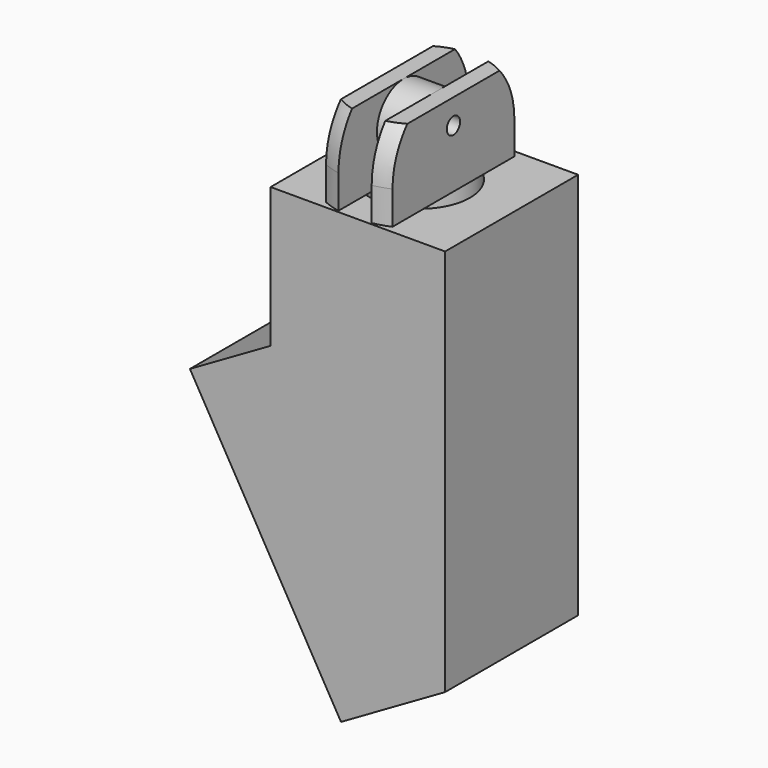
from build123d import *

# Parameters (mm, degrees)
CYLINDER252_R               = 2
CYLINDER252_DEPTH           = 10
CYLINDER252_PLACEMENT_ANGLE = 30
CYLINDER249_R               = 3
CYLINDER249_DEPTH           = 22
CYLINDER232_R               = 0.5
CYLINDER232_DEPTH           = 10
CYLINDER250_R               = 2
CYLINDER250_DEPTH           = 4
CYLINDER248_R               = 3
CYLINDER248_DEPTH           = 10
BOX132_W                    = 10
BOX132_H                    = 10
BOX132_DEPTH                = 10
BOX130_W                    = 2
BOX130_H                    = 10
BOX130_DEPTH                = 10
BOX121_W                    = 10
BOX121_H                    = 10
BOX121_DEPTH                = 10
CYLINDER251_R               = 5
CYLINDER251_DEPTH           = 10
CYLINDER239_R               = 5
CYLINDER239_DEPTH           = 10
BOX129_W                    = 2
BOX129_H                    = 10
BOX129_DEPTH                = 25
BOX126_W                    = 2
BOX126_H                    = 10
BOX126_DEPTH                = 10
BOX128_W                    = 1.5
BOX128_H                    = 10
BOX128_DEPTH                = 24
BOX128_PLACEMENT_ANGLE      = 60
BOX114_W                    = 1
BOX114_H                    = 10
BOX114_DEPTH                = 24
BOX131_W                    = 12
BOX131_H                    = 10
BOX131_DEPTH                = 17
BOX131_PLACEMENT_ANGLE      = 30
BOX127_W                    = 12.5
BOX127_H                    = 10
BOX127_DEPTH                = 43
BOX111_W                    = 32
BOX111_H                    = 10
BOX111_DEPTH                = 43
BOX111_PLACEMENT_ANGLE      = 30
CYLINDER229_R               = 4.85
CYLINDER229_DEPTH           = 10
BOX125_W                    = 13
BOX125_H                    = 16
BOX125_DEPTH                = 32
BOX125_PLACEMENT_ANGLE      = 30
CYLINDER247_R               = 3
CYLINDER247_DEPTH           = 43
CYLINDER228_R               = 2
CYLINDER228_DEPTH           = 30
CYLINDER242_R               = 2
CYLINDER242_DEPTH           = 30
CYLINDER244_R               = 2
CYLINDER244_DEPTH           = 50
CYLINDER245_R               = 2
CYLINDER245_DEPTH           = 15
CYLINDER246_R               = 3
CYLINDER246_DEPTH           = 5
CYLINDER243_R               = 3
CYLINDER243_DEPTH           = 5
CYLINDER236_R               = 0.5
CYLINDER236_DEPTH           = 10
CYLINDER233_R               = 2
CYLINDER233_DEPTH           = 4
CYLINDER241_R               = 3
CYLINDER241_DEPTH           = 10
BOX118_W                    = 10
BOX118_H                    = 10
BOX118_DEPTH                = 10
BOX115_W                    = 2
BOX115_H                    = 10
BOX115_DEPTH                = 10
BOX122_W                    = 10
BOX122_H                    = 10
BOX122_DEPTH                = 10
CYLINDER237_R               = 5
CYLINDER237_DEPTH           = 10
CYLINDER240_R               = 5
CYLINDER240_DEPTH           = 10
CYLINDER230_R               = 0.5
CYLINDER230_DEPTH           = 10
CYLINDER235_R               = 2
CYLINDER235_DEPTH           = 4
CYLINDER238_R               = 3
CYLINDER238_DEPTH           = 10
BOX124_W                    = 10
BOX124_H                    = 10
BOX124_DEPTH                = 10
BOX112_W                    = 2
BOX112_H                    = 10
BOX112_DEPTH                = 10
BOX117_W                    = 10
BOX117_H                    = 10
BOX117_DEPTH                = 10
CYLINDER231_R               = 5
CYLINDER231_DEPTH           = 10
CYLINDER234_R               = 5
CYLINDER234_DEPTH           = 10
BOX119_W                    = 10
BOX119_H                    = 10
BOX119_DEPTH                = 20
BOX123_W                    = 10
BOX123_H                    = 10
BOX123_DEPTH                = 20
BOX113_W                    = 40
BOX113_H                    = 10
BOX113_DEPTH                = 50
BOX113_PLACEMENT_ANGLE      = 30
BOX120_W                    = 40
BOX120_H                    = 10
BOX120_DEPTH                = 50
BOX116_W                    = 32
BOX116_H                    = 10
BOX116_DEPTH                = 43


with BuildPart() as cylinder252:
    # Cylinder252 → Cylinder252 (new body)
    with BuildSketch(Plane.XY):
        Circle(CYLINDER252_R)
    extrude(amount=CYLINDER252_DEPTH)


with BuildPart() as cylinder252_1:
    # Cylinder252 placement: moved
    add(cylinder252.part.moved(Location((-69.936533, 0, -70.815699))).rotate(Axis((-69.936533, 0, -70.815699), (0, 1, 0)), CYLINDER252_PLACEMENT_ANGLE))


with BuildPart() as cylinder249:
    # Cylinder249 → Cylinder249 (new body)
    with BuildSketch(Plane(origin=(-64.5, 0, -69.5), x_dir=(1, 0, 0), z_dir=(0, 0, 1))):
        Circle(CYLINDER249_R)
    extrude(amount=CYLINDER249_DEPTH)


with BuildPart() as cylinder232:
    # Cylinder232 → Cylinder232 (new body)
    with BuildSketch(Plane(origin=(-5, 0, -7), x_dir=(0, 0, -1), z_dir=(1, 0, 0))):
        Circle(CYLINDER232_R)
    extrude(amount=CYLINDER232_DEPTH)


with BuildPart() as cylinder250:
    # Cylinder250 → Cylinder250 (new body)
    with BuildSketch(Plane(origin=(-2, -50, 1), x_dir=(0, 0, -1), z_dir=(1, 0, 0))):
        Circle(CYLINDER250_R)
    extrude(amount=CYLINDER250_DEPTH)


with BuildPart() as cylinder248:
    # Cylinder248 → Cylinder248 (new body)
    with BuildSketch(Plane(origin=(0, -50, -12), x_dir=(1, 0, 0), z_dir=(0, 0, 1))):
        Circle(CYLINDER248_R)
    extrude(amount=CYLINDER248_DEPTH)


with BuildPart() as cube132:
    # Box132 → Box132 (new body)
    with BuildSketch(Plane(origin=(-12, -55, -2), x_dir=(1, 0, 0), z_dir=(0, 0, 1))):
        with Locations((5, 5)):
            Rectangle(BOX132_W, BOX132_H)
    extrude(amount=BOX132_DEPTH)


with BuildPart() as cube130:
    # Box130 → Box130 (new body)
    with BuildSketch(Plane(origin=(-1, -55, -2), x_dir=(1, 0, 0), z_dir=(0, 0, 1))):
        with Locations((1, 5)):
            Rectangle(BOX130_W, BOX130_H)
    extrude(amount=BOX130_DEPTH)


with BuildPart() as cube121:
    # Box121 → Box121 (new body)
    with BuildSketch(Plane(origin=(2, -55, -2), x_dir=(1, 0, 0), z_dir=(0, 0, 1))):
        with Locations((5, 5)):
            Rectangle(BOX121_W, BOX121_H)
    extrude(amount=BOX121_DEPTH)


with BuildPart() as cylinder251:
    # Cylinder251 → Cylinder251 (new body)
    with BuildSketch(Plane(origin=(0, -50, -10), x_dir=(1, 0, 0), z_dir=(0, 0, 1))):
        Circle(CYLINDER251_R)
    extrude(amount=CYLINDER251_DEPTH)


with BuildPart() as sphere048:
    # Sphere048 → Sphere048 (revolve)
    with BuildSketch(Plane.XZ.offset(50)):
        with BuildLine():
            ThreePointArc((5, 0), (3.535534, 3.535534), (0, 5))
            Line((0, 5), (0, 0))
            Line((0, 0), (5, 0))
        make_face()
    revolve(axis=Axis((0, -50, 0), (0, 0, 1)))


with BuildPart() as cut204006055:
    # Cylinder239 → Cylinder239 (new body)
    with BuildSketch(Plane(origin=(0, -50, -7), x_dir=(1, 0, 0), z_dir=(0, 0, 1))):
        Circle(CYLINDER239_R)
    extrude(amount=CYLINDER239_DEPTH)

    # Common041: intersect Sphere048
    add(sphere048.part, mode=Mode.INTERSECT)

    # Fusion005077020021: union Cylinder251
    add(cylinder251.part)

    # Cut204006052: cut Cube121
    add(cube121.part, mode=Mode.SUBTRACT)

    # Cut204006046: cut Cube130
    add(cube130.part, mode=Mode.SUBTRACT)

    # Cut204006051: cut Cube132
    add(cube132.part, mode=Mode.SUBTRACT)

    # Cut204006047: cut Cylinder248
    add(cylinder248.part, mode=Mode.SUBTRACT)

    # Fusion005077020020: union Cylinder250
    add(cylinder250.part)


with BuildPart() as cut204006055_1:
    # Fusion005077020019 placement: moved
    add(cut204006055.part.moved(Location((0, 50, -8.5))))

    # Cut204006055: cut Cylinder232
    add(cylinder232.part, mode=Mode.SUBTRACT)


with BuildPart() as cut204006055_2:
    # Cut204006055 placement: moved
    add(cut204006055_1.part.moved(Location((-64.5, 0, -37))))


with BuildPart() as cube129:
    # Box129 → Box129 (new body)
    with BuildSketch(Plane(origin=(-59, -5, -72), x_dir=(1, 0, 0), z_dir=(0, 0, 1))):
        with Locations((1, 5)):
            Rectangle(BOX129_W, BOX129_H)
    extrude(amount=BOX129_DEPTH)


with BuildPart() as cube126:
    # Box126 → Box126 (new body)
    with BuildSketch(Plane(origin=(-57.5, -5, -72), x_dir=(1, 0, 0), z_dir=(0, 0, 1))):
        with Locations((1, 5)):
            Rectangle(BOX126_W, BOX126_H)
    extrude(amount=BOX126_DEPTH)


with BuildPart() as cube128:
    # Box128 → Box128 (new body)
    with BuildSketch(Plane.XY):
        with Locations((0.75, 5)):
            Rectangle(BOX128_W, BOX128_H)
    extrude(amount=BOX128_DEPTH)


with BuildPart() as cube128_1:
    # Box128 placement: moved
    add(cube128.part.moved(Location((-189.24, -5, -81.946987))).rotate(Axis((-189.24, -5, -81.946987), (0, 1, 0)), BOX128_PLACEMENT_ANGLE))


with BuildPart() as cube114:
    # Box114 → Box114 (new body)
    with BuildSketch(Plane(origin=(-169, -5, -70.5), x_dir=(1, 0, 0), z_dir=(0, 0, 1))):
        with Locations((0.5, 5)):
            Rectangle(BOX114_W, BOX114_H)
    extrude(amount=BOX114_DEPTH)


with BuildPart() as cube131:
    # Box131 → Box131 (new body)
    with BuildSketch(Plane.XY):
        with Locations((6, 5)):
            Rectangle(BOX131_W, BOX131_H)
    extrude(amount=BOX131_DEPTH)


with BuildPart() as cube131_1:
    # Box131 placement: moved
    add(cube131.part.moved(Location((-167.14, -5, -90.45))).rotate(Axis((-167.14, -5, -90.45), (0, -1, 0)), BOX131_PLACEMENT_ANGLE))


with BuildPart() as cube127:
    # Box127 → Box127 (new body)
    with BuildSketch(Plane(origin=(-168, -5, -90.5), x_dir=(1, 0, 0), z_dir=(0, 0, 1))):
        with Locations((6.25, 5)):
            Rectangle(BOX127_W, BOX127_H)
    extrude(amount=BOX127_DEPTH)


with BuildPart() as cube111:
    # Box111 → Box111 (new body)
    with BuildSketch(Plane.XY):
        with Locations((16, 5)):
            Rectangle(BOX111_W, BOX111_H)
    extrude(amount=BOX111_DEPTH)


with BuildPart() as cube111_1:
    # Box111 placement: moved
    add(cube111.part.moved(Location((-192.839746, -5, -109.748711))).rotate(Axis((-192.839746, -5, -109.748711), (0, -1, 0)), BOX111_PLACEMENT_ANGLE))


with BuildPart() as cylinder229:
    # Cylinder229 → Cylinder229 (new body)
    with BuildSketch(Plane(origin=(-45.5, -1, -56.5), x_dir=(1, 0, 0), z_dir=(0, 0, 1))):
        Circle(CYLINDER229_R)
    extrude(amount=CYLINDER229_DEPTH)


with BuildPart() as cube125:
    # Box125 → Box125 (new body)
    with BuildSketch(Plane.XY):
        with Locations((6.5, 8)):
            Rectangle(BOX125_W, BOX125_H)
    extrude(amount=BOX125_DEPTH)


with BuildPart() as cube125_1:
    # Box125 placement: moved
    add(cube125.part.moved(Location((-37.892051, -7.5, -98.12))).rotate(Axis((-37.892051, -7.5, -98.12), (0, -1, 0)), BOX125_PLACEMENT_ANGLE))


with BuildPart() as cylinder247:
    # Cylinder247 → Cylinder247 (new body)
    with BuildSketch(Plane(origin=(-93, 0, -100.5), x_dir=(1, 0, 0), z_dir=(0, 0, 1))):
        Circle(CYLINDER247_R)
    extrude(amount=CYLINDER247_DEPTH)


with BuildPart() as cylinder228:
    # Cylinder228 → Cylinder228 (new body)
    with BuildSketch(Plane(origin=(-61.5, 0, -136), x_dir=(1, 0, 0), z_dir=(0, 0, 1))):
        Circle(CYLINDER228_R)
    extrude(amount=CYLINDER228_DEPTH)


with BuildPart() as cylinder242:
    # Cylinder242 → Cylinder242 (new body)
    with BuildSketch(Plane(origin=(-69, 0, -136), x_dir=(1, 0, 0), z_dir=(0, 0, 1))):
        Circle(CYLINDER242_R)
    extrude(amount=CYLINDER242_DEPTH)


with BuildPart() as cylinder244:
    # Cylinder244 → Cylinder244 (new body)
    with BuildSketch(Plane(origin=(-81, 0, -143.5), x_dir=(1, 0, 0), z_dir=(0, 0, 1))):
        Circle(CYLINDER244_R)
    extrude(amount=CYLINDER244_DEPTH)


with BuildPart() as cylinder245:
    # Cylinder245 → Cylinder245 (new body)
    with BuildSketch(Plane(origin=(-92, 0, -91), x_dir=(0, 0, -1), z_dir=(1, 0, 0))):
        Circle(CYLINDER245_R)
    extrude(amount=CYLINDER245_DEPTH)


with BuildPart() as cylinder246:
    # Cylinder246 → Cylinder246 (new body)
    with BuildSketch(Plane(origin=(-77, 0, -89.5), x_dir=(1, 0, 0), z_dir=(0, 0, 1))):
        Circle(CYLINDER246_R)
    extrude(amount=CYLINDER246_DEPTH)


with BuildPart() as cylinder243:
    # Cylinder243 → Cylinder243 (new body)
    with BuildSketch(Plane(origin=(-92.5, 0, -89.5), x_dir=(1, 0, 0), z_dir=(0, 0, 1))):
        Circle(CYLINDER243_R)
    extrude(amount=CYLINDER243_DEPTH)


with BuildPart() as cylinder236:
    # Cylinder236 → Cylinder236 (new body)
    with BuildSketch(Plane(origin=(-5, 0, -7), x_dir=(0, 0, -1), z_dir=(1, 0, 0))):
        Circle(CYLINDER236_R)
    extrude(amount=CYLINDER236_DEPTH)


with BuildPart() as cylinder233:
    # Cylinder233 → Cylinder233 (new body)
    with BuildSketch(Plane(origin=(-2, -50, 1), x_dir=(0, 0, -1), z_dir=(1, 0, 0))):
        Circle(CYLINDER233_R)
    extrude(amount=CYLINDER233_DEPTH)


with BuildPart() as cylinder241:
    # Cylinder241 → Cylinder241 (new body)
    with BuildSketch(Plane(origin=(0, -50, -12), x_dir=(1, 0, 0), z_dir=(0, 0, 1))):
        Circle(CYLINDER241_R)
    extrude(amount=CYLINDER241_DEPTH)


with BuildPart() as cube118:
    # Box118 → Box118 (new body)
    with BuildSketch(Plane(origin=(-12, -55, -2), x_dir=(1, 0, 0), z_dir=(0, 0, 1))):
        with Locations((5, 5)):
            Rectangle(BOX118_W, BOX118_H)
    extrude(amount=BOX118_DEPTH)


with BuildPart() as cube115:
    # Box115 → Box115 (new body)
    with BuildSketch(Plane(origin=(-1, -55, -2), x_dir=(1, 0, 0), z_dir=(0, 0, 1))):
        with Locations((1, 5)):
            Rectangle(BOX115_W, BOX115_H)
    extrude(amount=BOX115_DEPTH)


with BuildPart() as cube122:
    # Box122 → Box122 (new body)
    with BuildSketch(Plane(origin=(2, -55, -2), x_dir=(1, 0, 0), z_dir=(0, 0, 1))):
        with Locations((5, 5)):
            Rectangle(BOX122_W, BOX122_H)
    extrude(amount=BOX122_DEPTH)


with BuildPart() as cylinder237:
    # Cylinder237 → Cylinder237 (new body)
    with BuildSketch(Plane(origin=(0, -50, -10), x_dir=(1, 0, 0), z_dir=(0, 0, 1))):
        Circle(CYLINDER237_R)
    extrude(amount=CYLINDER237_DEPTH)


with BuildPart() as sphere047:
    # Sphere047 → Sphere047 (revolve)
    with BuildSketch(Plane.XZ.offset(50)):
        with BuildLine():
            ThreePointArc((5, 0), (3.535534, 3.535534), (0, 5))
            Line((0, 5), (0, 0))
            Line((0, 0), (5, 0))
        make_face()
    revolve(axis=Axis((0, -50, 0), (0, 0, 1)))


with BuildPart() as cut204006028:
    # Cylinder240 → Cylinder240 (new body)
    with BuildSketch(Plane(origin=(0, -50, -7), x_dir=(1, 0, 0), z_dir=(0, 0, 1))):
        Circle(CYLINDER240_R)
    extrude(amount=CYLINDER240_DEPTH)

    # Common039: intersect Sphere047
    add(sphere047.part, mode=Mode.INTERSECT)

    # Fusion005077020014: union Cylinder237
    add(cylinder237.part)

    # Cut204006021: cut Cube122
    add(cube122.part, mode=Mode.SUBTRACT)

    # Cut204006036: cut Cube115
    add(cube115.part, mode=Mode.SUBTRACT)

    # Cut204006037: cut Cube118
    add(cube118.part, mode=Mode.SUBTRACT)

    # Cut204006038: cut Cylinder241
    add(cylinder241.part, mode=Mode.SUBTRACT)

    # Fusion005077020015: union Cylinder233
    add(cylinder233.part)


with BuildPart() as cut204006028_1:
    # Fusion005077020013 placement: moved
    add(cut204006028.part.moved(Location((0, 50, -8.5))))

    # Cut204006028: cut Cylinder236
    add(cylinder236.part, mode=Mode.SUBTRACT)


with BuildPart() as cut204006028_2:
    # Cut204006028 placement: moved
    add(cut204006028_1.part.moved(Location((-77, 0, -74))))


with BuildPart() as cylinder230:
    # Cylinder230 → Cylinder230 (new body)
    with BuildSketch(Plane(origin=(-5, 0, -7), x_dir=(0, 0, -1), z_dir=(1, 0, 0))):
        Circle(CYLINDER230_R)
    extrude(amount=CYLINDER230_DEPTH)


with BuildPart() as cylinder235:
    # Cylinder235 → Cylinder235 (new body)
    with BuildSketch(Plane(origin=(-2, -50, 1), x_dir=(0, 0, -1), z_dir=(1, 0, 0))):
        Circle(CYLINDER235_R)
    extrude(amount=CYLINDER235_DEPTH)


with BuildPart() as cylinder238:
    # Cylinder238 → Cylinder238 (new body)
    with BuildSketch(Plane(origin=(0, -50, -12), x_dir=(1, 0, 0), z_dir=(0, 0, 1))):
        Circle(CYLINDER238_R)
    extrude(amount=CYLINDER238_DEPTH)


with BuildPart() as cube124:
    # Box124 → Box124 (new body)
    with BuildSketch(Plane(origin=(-12, -55, -2), x_dir=(1, 0, 0), z_dir=(0, 0, 1))):
        with Locations((5, 5)):
            Rectangle(BOX124_W, BOX124_H)
    extrude(amount=BOX124_DEPTH)


with BuildPart() as cube112:
    # Box112 → Box112 (new body)
    with BuildSketch(Plane(origin=(-1, -55, -2), x_dir=(1, 0, 0), z_dir=(0, 0, 1))):
        with Locations((1, 5)):
            Rectangle(BOX112_W, BOX112_H)
    extrude(amount=BOX112_DEPTH)


with BuildPart() as cube117:
    # Box117 → Box117 (new body)
    with BuildSketch(Plane(origin=(2, -55, -2), x_dir=(1, 0, 0), z_dir=(0, 0, 1))):
        with Locations((5, 5)):
            Rectangle(BOX117_W, BOX117_H)
    extrude(amount=BOX117_DEPTH)


with BuildPart() as cylinder231:
    # Cylinder231 → Cylinder231 (new body)
    with BuildSketch(Plane(origin=(0, -50, -10), x_dir=(1, 0, 0), z_dir=(0, 0, 1))):
        Circle(CYLINDER231_R)
    extrude(amount=CYLINDER231_DEPTH)


with BuildPart() as sphere046:
    # Sphere046 → Sphere046 (revolve)
    with BuildSketch(Plane.XZ.offset(50)):
        with BuildLine():
            ThreePointArc((5, 0), (3.535534, 3.535534), (0, 5))
            Line((0, 5), (0, 0))
            Line((0, 0), (5, 0))
        make_face()
    revolve(axis=Axis((0, -50, 0), (0, 0, 1)))


with BuildPart() as cut204006026:
    # Cylinder234 → Cylinder234 (new body)
    with BuildSketch(Plane(origin=(0, -50, -7), x_dir=(1, 0, 0), z_dir=(0, 0, 1))):
        Circle(CYLINDER234_R)
    extrude(amount=CYLINDER234_DEPTH)

    # Common040: intersect Sphere046
    add(sphere046.part, mode=Mode.INTERSECT)

    # Fusion005077020012: union Cylinder231
    add(cylinder231.part)

    # Cut204006030: cut Cube117
    add(cube117.part, mode=Mode.SUBTRACT)

    # Cut204006023: cut Cube112
    add(cube112.part, mode=Mode.SUBTRACT)

    # Cut204006029: cut Cube124
    add(cube124.part, mode=Mode.SUBTRACT)

    # Cut204006020: cut Cylinder238
    add(cylinder238.part, mode=Mode.SUBTRACT)

    # Fusion005077020011: union Cylinder235
    add(cylinder235.part)


with BuildPart() as cut204006026_1:
    # Fusion005077020010 placement: moved
    add(cut204006026.part.moved(Location((0, 50, -8.5))))

    # Cut204006026: cut Cylinder230
    add(cylinder230.part, mode=Mode.SUBTRACT)


with BuildPart() as cut204006026_2:
    # Cut204006026 placement: moved
    add(cut204006026_1.part.moved(Location((-92, 0, -74))))


with BuildPart() as cube119:
    # Box119 → Box119 (new body)
    with BuildSketch(Plane(origin=(-70, -5, -83.5), x_dir=(0, 0, -1), z_dir=(1, 0, 0))):
        with Locations((5, 5)):
            Rectangle(BOX119_W, BOX119_H)
    extrude(amount=BOX119_DEPTH)


with BuildPart() as cube123:
    # Box123 → Box123 (new body)
    with BuildSketch(Plane(origin=(-98, -5, -118.5), x_dir=(1, 0, 0), z_dir=(0, 0, 1))):
        with Locations((5, 5)):
            Rectangle(BOX123_W, BOX123_H)
    extrude(amount=BOX123_DEPTH)


with BuildPart() as cube113:
    # Box113 → Box113 (new body)
    with BuildSketch(Plane.XY):
        with Locations((20, 5)):
            Rectangle(BOX113_W, BOX113_H)
    extrude(amount=BOX113_DEPTH)


with BuildPart() as cube113_1:
    # Box113 placement: moved
    add(cube113.part.moved(Location((-51.158872, -5, -139.76751))).rotate(Axis((-51.158872, -5, -139.76751), (0, -1, 0)), BOX113_PLACEMENT_ANGLE))


with BuildPart() as cut204006044:
    # Box120 → Box120 (new body)
    with BuildSketch(Plane(origin=(-98, -5, -134.5), x_dir=(1, 0, 0), z_dir=(0, 0, 1))):
        with Locations((20, 5)):
            Rectangle(BOX120_W, BOX120_H)
    extrude(amount=BOX120_DEPTH)

    # Cut204006025: cut Cube113
    add(cube113_1.part, mode=Mode.SUBTRACT)

    # Cut204006024: cut Cube123
    add(cube123.part, mode=Mode.SUBTRACT)

    # Cut204006022: cut Cube119
    add(cube119.part, mode=Mode.SUBTRACT)

    # Fusion005077020016: union Cut204006026
    add(cut204006026_2.part)

    # Fusion005077020018: union Cut204006028
    add(cut204006028_2.part)

    # Cut204006040: cut Cylinder243
    add(cylinder243.part, mode=Mode.SUBTRACT)

    # Cut204006041: cut Cylinder246
    add(cylinder246.part, mode=Mode.SUBTRACT)

    # Cut204006039: cut Cylinder245
    add(cylinder245.part, mode=Mode.SUBTRACT)

    # Cut204006043: cut Cylinder244
    add(cylinder244.part, mode=Mode.SUBTRACT)

    # Cut204006042: cut Cylinder242
    add(cylinder242.part, mode=Mode.SUBTRACT)

    # Cut204006027: cut Cylinder228
    add(cylinder228.part, mode=Mode.SUBTRACT)


with BuildPart() as cut204006044_1:
    # Cut204006027 placement: moved
    add(cut204006044.part.moved(Location((0, 0, 37))))

    # Cut204006044: cut Cylinder247
    add(cylinder247.part, mode=Mode.SUBTRACT)


with BuildPart() as cut204006044_2:
    # Cut204006044 placement: moved
    add(cut204006044_1.part.moved(Location((132, 0, 0))))


with BuildPart() as cut204006057:
    # Box116 → Box116 (new body)
    with BuildSketch(Plane(origin=(55, -5, -90.5), x_dir=(1, 0, 0), z_dir=(0, 0, 1))):
        with Locations((16, 5)):
            Rectangle(BOX116_W, BOX116_H)
    extrude(amount=BOX116_DEPTH)

    # Cut204006045: cut Cut204006044
    add(cut204006044_2.part, mode=Mode.SUBTRACT)


with BuildPart() as cut204006057_1:
    # Cut204006045 placement: moved
    add(cut204006057.part.moved(Location((-101, 0, 0))))

    # Cut204006035: cut Cube125
    add(cube125_1.part, mode=Mode.SUBTRACT)

    # Cut204006034: cut Cylinder229
    add(cylinder229.part, mode=Mode.SUBTRACT)


with BuildPart() as cut204006057_2:
    # Cut204006034 placement: moved
    add(cut204006057_1.part.moved(Location((-141.5, 0, 0))))

    # Cut204006033: cut Cube111
    add(cube111_1.part, mode=Mode.SUBTRACT)

    # Cut204006031: cut Cube127
    add(cube127.part, mode=Mode.SUBTRACT)

    # Cut204006048: cut Cube131
    add(cube131_1.part, mode=Mode.SUBTRACT)

    # Cut204006049: cut Cube114
    add(cube114.part, mode=Mode.SUBTRACT)

    # Cut204006053: cut Cube128
    add(cube128_1.part, mode=Mode.SUBTRACT)


with BuildPart() as cut204006057_3:
    # Cut204006053 placement: moved
    add(cut204006057_2.part.moved(Location((111, 0, 0))))

    # Cut204006054: cut Cube126
    add(cube126.part, mode=Mode.SUBTRACT)

    # Cut204006050: cut Cube129
    add(cube129.part, mode=Mode.SUBTRACT)

    # Fusion005077020022: union Cut204006055
    add(cut204006055_2.part)

    # Cut204006056: cut Cylinder249
    add(cylinder249.part, mode=Mode.SUBTRACT)

    # Cut204006057: cut Cylinder252
    add(cylinder252_1.part, mode=Mode.SUBTRACT)


with BuildPart() as cut204006057_4:
    # Cut204006057 placement: moved
    add(cut204006057_3.part.moved(Location((145, 0, 0))))


solid = cut204006057_4.part
